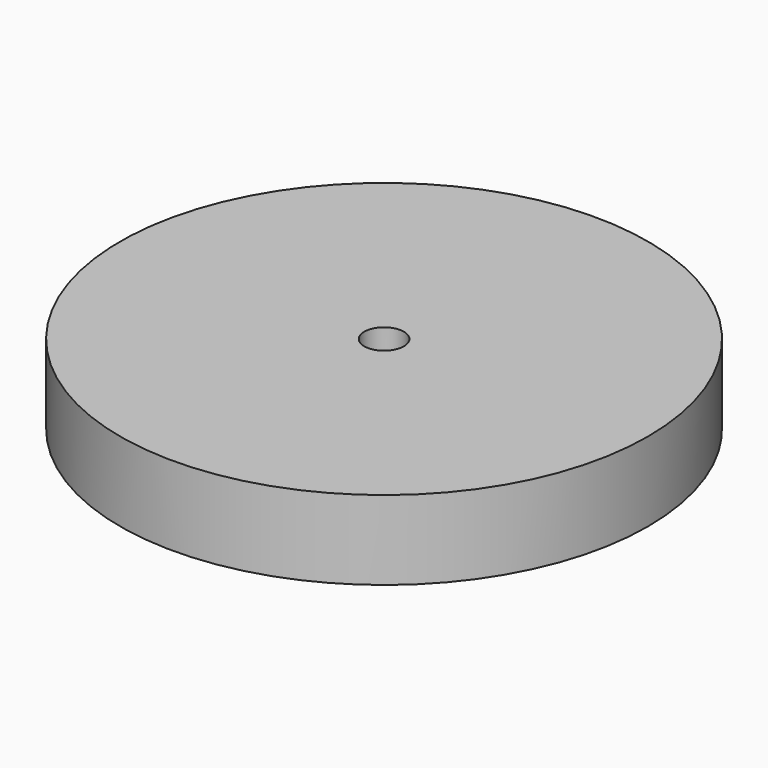
from build123d import *

# Parameters (mm, degrees)
F0_R     = 20
F1_DEPTH = 3
F2_D     = 3
F3_D     = 3


with BuildPart() as f1:
    # F0 (on Top) → F1 (new body, symmetric)
    with BuildSketch(Plane.XY):
        Circle(F0_R)
    extrude(amount=F1_DEPTH, both=True)

    # F2 (through all)
    with Locations(Plane.XY):
        with Locations((0, 0)):
            Hole(F2_D / 2)

    # F3 (through all)
    with Locations(Plane(origin=(0, 0, 0), x_dir=(1, 0, 0), z_dir=(0, 0, -1))):
        with Locations((0, 0)):
            Hole(F3_D / 2)


solid = f1.part
